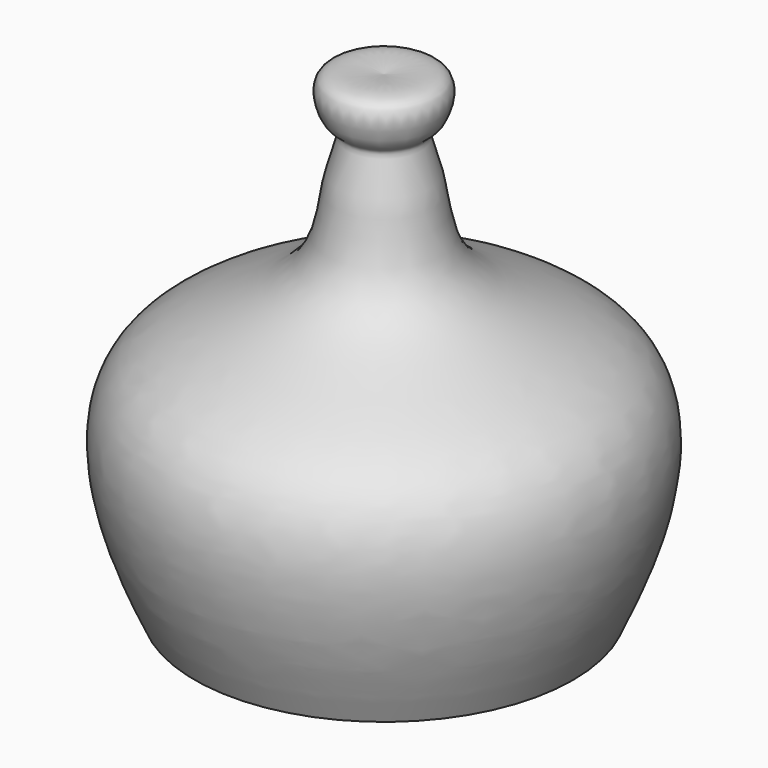
from build123d import *


with BuildPart() as f2:
    # F1 (on Front) → F2 (revolve)
    with BuildSketch(Plane.XZ):
        with BuildLine():
            Line((-28.7094712257, -15.5313536525), (0, -15.5313536525))
            Line((0, -15.5313536525), (0, 56.007001549))
            add(Edge.make_bspline(
                [(-28.7094712257, -15.5313536525), (-30.9120245044, -10.6213967236), (-35.3728161137, -0.6773491122), (-36.2092741191, 20.4634252317), (-7.7861605704, 27.102239585), (-8.0464236471, 41.9632401952), (-4.705911804, 48.8001655763), (-7.5402865502, 49.3825966664), (-9.8483477147, 57.356346029), (-3.4836463658, 56.4843038468), (0, 56.007001549)],
                knots=[0, 0, 0, 0, 0.1573557822, 0.3186898405, 0.509188502, 0.6496693125, 0.7448781737, 0.7995747747, 0.8902995491, 1, 1, 1, 1], degree=3))
        make_face()
    revolve(axis=Axis((0, 0, 20.2378239483), (0, 0, -1)))


solid = f2.part
